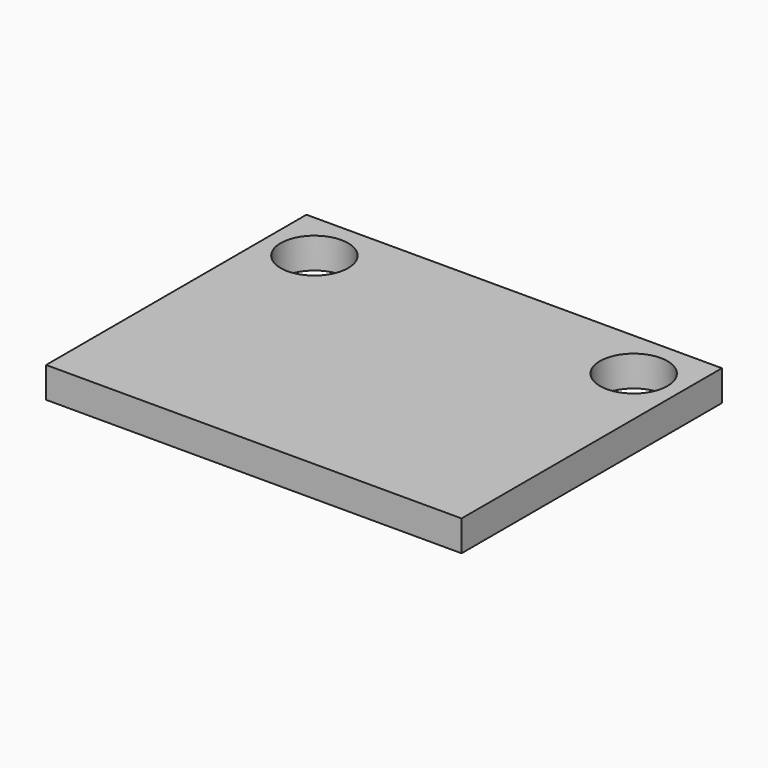
from build123d import *

# Parameters (mm, degrees)
SKETCH_W     = 20.3
SKETCH_H     = 15.9
PAD_DEPTH    = 1.5
SKETCH001_R  = 1.65
POCKET_DEPTH = 5


with BuildPart() as part:
    # Sketch → Pad (new body)
    with BuildSketch(Plane.XY):
        with Locations((0, -0.3)):
            Rectangle(SKETCH_W, SKETCH_H)
    extrude(amount=PAD_DEPTH)

    # Sketch001 (on Face6 of Pad) → Pocket (cut)
    with BuildSketch(Plane.XY.offset(1.5)):
        with Locations((-7.8, 5.2)):
            Circle(SKETCH001_R)
        with Locations((7.8, 5.2)):
            Circle(SKETCH001_R)
    extrude(amount=-POCKET_DEPTH, mode=Mode.SUBTRACT)


solid = part.part
